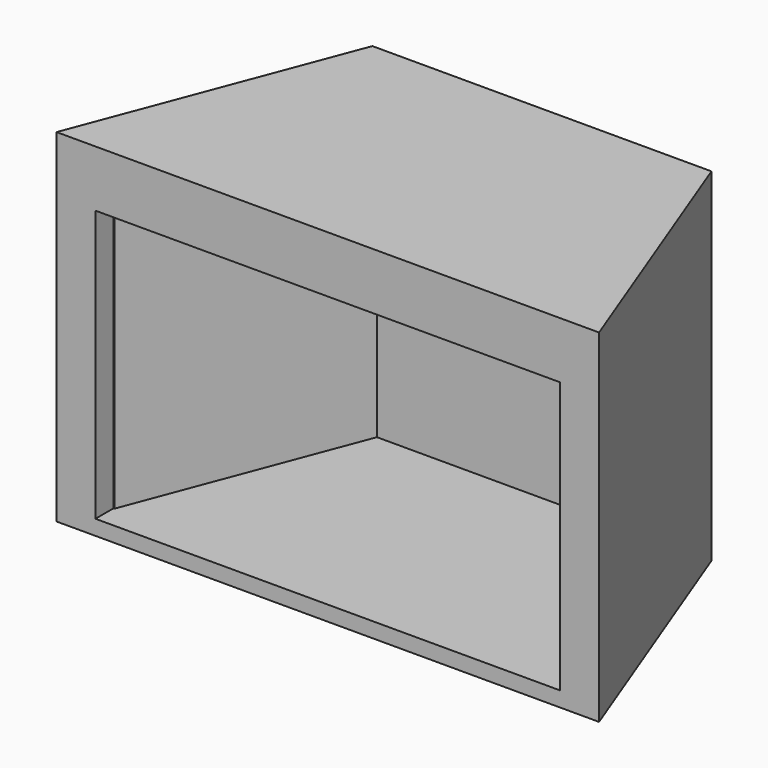
from build123d import *

# Parameters (mm, degrees)
F2_DEPTH = 482.6
F5_DEPTH = 95.25
F6_DEPTH = 457.2
F7_W     = 391.6691155402
F7_H     = 457.2
F8_DEPTH = 38.1


with BuildPart() as f2:
    # F1 (on face) → F2 (new body)
    with BuildSketch(Plane.XY):
        Polygon((848.8691155402, -187.3188240631), (677.4191155402, 263.7994060052), (105.9191155402, 263.7994060052), (-65.5308844598, -187.3188240631), align=None)
    extrude(amount=F2_DEPTH)

    # F3 (on face) → F5 (join)
    with BuildSketch(Plane.XY.offset(482.6)):
        Polygon((677.4191155402, 263.7994060052), (105.9191155402, 263.7994060052), (-65.5308844598, -187.3188240631), (848.8691155402, -187.3188240631), align=None)
        Polygon((1.5293506387, -149.2188240631), (144.0191155402, 225.6994060052), (639.3191155402, 225.6994060052), (781.8088804417, -149.2188240631), align=None, mode=Mode.SUBTRACT)
        Polygon((639.3191155402, 225.6994060052), (144.0191155402, 225.6994060052), (1.5293506387, -149.2188240631), (781.8088804417, -149.2188240631), align=None)
    extrude(amount=F5_DEPTH)

    # F4 (on face) → F6 (cut)
    with BuildSketch(Plane.XY.offset(482.6)):
        Polygon((781.8088804417, -149.2188240631), (639.3191155402, 225.6994060052), (144.0191155402, 225.6994060052), (1.5293506387, -149.2188240631), align=None)
    extrude(amount=-F6_DEPTH, mode=Mode.SUBTRACT)

    # F7 (on face) → F8 (cut)
    with BuildSketch(Plane.XZ.offset(187.3188240631)):
        with Locations((587.5036733103, 254)):
            Rectangle(F7_W, F7_H)
        with Locations((195.8345577701, 254)):
            Rectangle(F7_W, F7_H)
    extrude(amount=-F8_DEPTH, mode=Mode.SUBTRACT)


solid = f2.part
